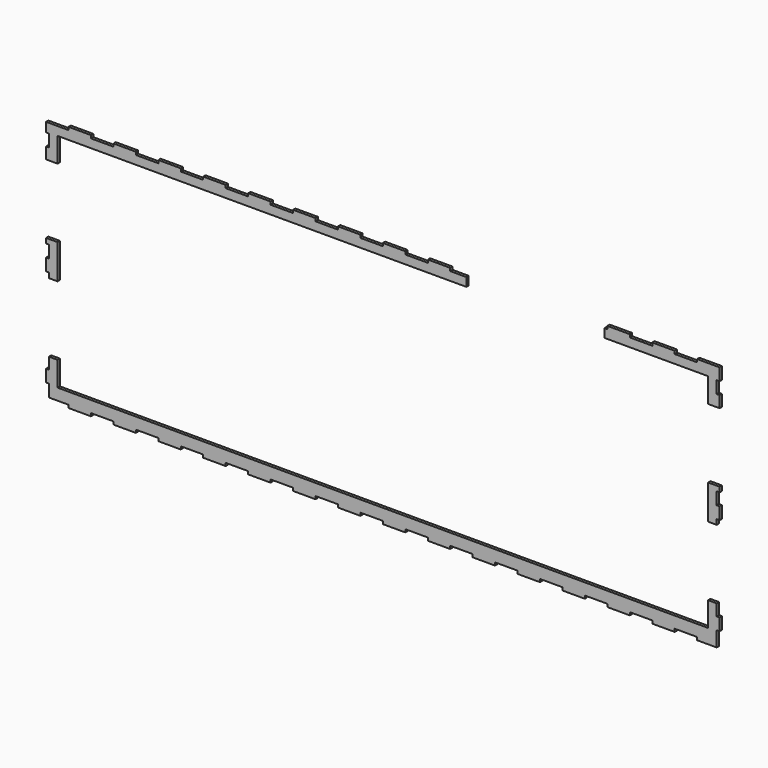
from build123d import *

# Parameters (mm, degrees)
F1_DEPTH = 3.175


with BuildPart() as f1:
    # F0 (on Front) → F1 (new body)
    with BuildSketch(Plane.XZ):
        Polygon((358.775, 19.05), (358.775, -19.05), (368.3, -19.05), (368.3, -13.49375), (371.475, -13.49375), (371.475, 0), (368.3, 0), (368.3, 13.49375), (371.475, 13.49375), (371.475, 19.05), align=None)
        Polygon((-368.3, -19.05), (-358.775, -19.05), (-358.775, 19.05), (-371.475, 19.05), (-371.475, 13.49375), (-368.3, 13.49375), (-368.3, 0), (-371.475, 0), (-371.475, -13.49375), (-368.3, -13.49375), align=None)
        Polygon((358.775, -95.25), (358.775, -122.2375), (355.6, -122.2375), (355.6, -128.5875), (358.775, -128.5875), (358.775, -134.9375), (358.775, -138.1125), (365.125, -138.1125), (368.3, -138.1125), (368.3, -134.9375), (368.3, -121.44375), (371.475, -121.44375), (371.475, -107.95), (368.3, -107.95), (368.3, -95.25), (365.125, -95.25), align=None)
        Polygon((-355.6, -128.5875), (-355.6, -122.2375), (-358.775, -122.2375), (-358.775, -95.25), (-365.125, -95.25), (-368.3, -95.25), (-368.3, -107.95), (-371.475, -107.95), (-371.475, -121.44375), (-368.3, -121.44375), (-368.3, -131.7625), (-368.3, -134.9375), (-365.125, -134.9375), (-358.775, -134.9375), (-358.775, -131.7625), (-358.775, -128.5875), align=None)
        Polygon((358.775, 122.2375), (358.775, 95.25), (371.475, 95.25), (371.475, 107.95), (368.3, 107.95), (368.3, 121.44375), (371.475, 121.44375), (371.475, 134.9375), (358.775, 134.9375), (358.775, 128.5875), (355.6, 128.5875), (355.6, 122.2375), align=None)
        Polygon((244.475, 122.2375), (355.6, 122.2375), (355.6, 128.5875), (358.775, 128.5875), (358.775, 134.9375), (346.71, 134.9375), (346.71, 131.7625), (321.945, 131.7625), (321.945, 134.9375), (318.77, 134.9375), (297.18, 134.9375), (297.18, 131.7625), (272.415, 131.7625), (272.415, 134.9375), (247.65, 134.9375), (247.65, 131.7625), (244.475, 131.7625), align=None)
        Polygon((-355.6, 122.2375), (92.075, 122.2375), (92.075, 131.7625), (74.295, 131.7625), (74.295, 134.9375), (49.53, 134.9375), (49.53, 131.7625), (24.765, 131.7625), (24.765, 134.9375), (0, 134.9375), (0, 131.7625), (-24.765, 131.7625), (-24.765, 134.9375), (-49.53, 134.9375), (-49.53, 131.7625), (-74.295, 131.7625), (-74.295, 134.9375), (-99.06, 134.9375), (-99.06, 131.7625), (-123.825, 131.7625), (-123.825, 134.9375), (-148.59, 134.9375), (-148.59, 131.7625), (-173.355, 131.7625), (-173.355, 134.9375), (-198.12, 134.9375), (-198.12, 131.7625), (-222.885, 131.7625), (-222.885, 134.9375), (-247.65, 134.9375), (-247.65, 131.7625), (-272.415, 131.7625), (-272.415, 134.9375), (-297.18, 134.9375), (-297.18, 131.7625), (-321.945, 131.7625), (-321.945, 134.9375), (-346.71, 134.9375), (-346.71, 131.7625), (-358.775, 131.7625), (-358.775, 128.5875), (-355.6, 128.5875), align=None)
        Polygon((-371.475, 95.25), (-358.775, 95.25), (-358.775, 122.2375), (-355.6, 122.2375), (-355.6, 128.5875), (-358.775, 128.5875), (-358.775, 131.7625), (-371.475, 131.7625), (-371.475, 121.44375), (-368.3, 121.44375), (-368.3, 107.95), (-371.475, 107.95), align=None)
        Polygon((355.6, -128.5875), (355.6, -122.2375), (-355.6, -122.2375), (-355.6, -128.5875), (-358.775, -128.5875), (-358.775, -131.7625), (-358.775, -134.9375), (-349.885, -134.9375), (-346.71, -134.9375), (-346.71, -138.1125), (-321.945, -138.1125), (-321.945, -134.9375), (-297.18, -134.9375), (-297.18, -138.1125), (-272.415, -138.1125), (-272.415, -134.9375), (-247.65, -134.9375), (-247.65, -138.1125), (-222.885, -138.1125), (-222.885, -134.9375), (-198.12, -134.9375), (-198.12, -138.1125), (-173.355, -138.1125), (-173.355, -134.9375), (-148.59, -134.9375), (-148.59, -138.1125), (-123.825, -138.1125), (-123.825, -134.9375), (-99.06, -134.9375), (-99.06, -138.1125), (-74.295, -138.1125), (-74.295, -134.9375), (-49.53, -134.9375), (-49.53, -138.1125), (-24.765, -138.1125), (-24.765, -134.9375), (0, -134.9375), (0, -138.1125), (24.765, -138.1125), (24.765, -134.9375), (49.53, -134.9375), (49.53, -138.1125), (74.295, -138.1125), (74.295, -134.9375), (99.06, -134.9375), (99.06, -138.1125), (123.825, -138.1125), (123.825, -134.9375), (148.59, -134.9375), (148.59, -138.1125), (173.355, -138.1125), (173.355, -134.9375), (198.12, -134.9375), (198.12, -138.1125), (222.885, -138.1125), (222.885, -134.9375), (247.65, -134.9375), (247.65, -138.1125), (272.415, -138.1125), (272.415, -134.9375), (297.18, -134.9375), (297.18, -138.1125), (321.945, -138.1125), (321.945, -134.9375), (346.71, -134.9375), (346.71, -138.1125), (349.885, -138.1125), (358.775, -138.1125), (358.775, -134.9375), (358.775, -128.5875), align=None)
    extrude(amount=F1_DEPTH)


solid = f1.part
